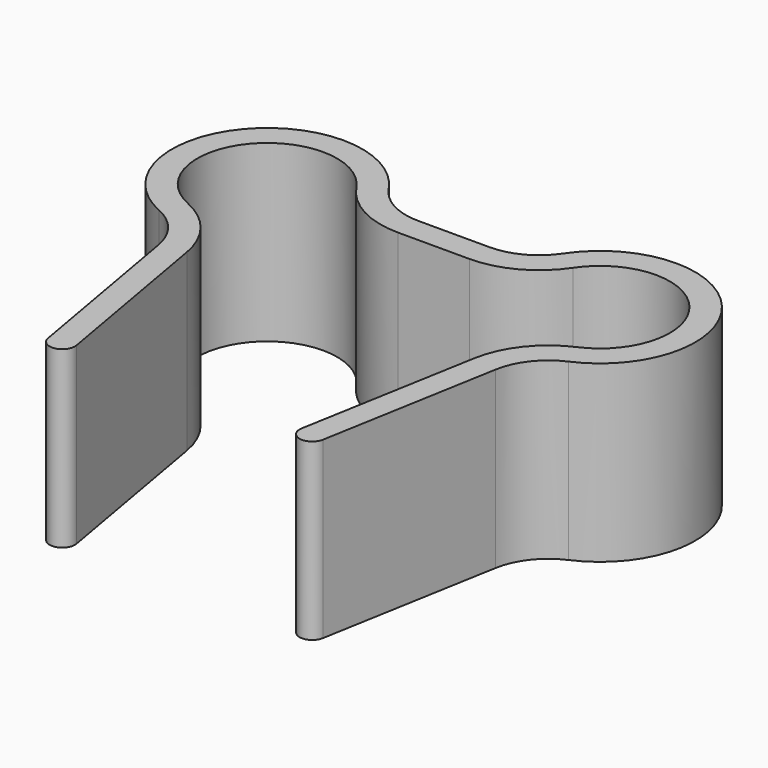
from build123d import *

# Parameters (mm, degrees)
F1_DEPTH = 20


with BuildPart() as f1:
    # F0 (on Top) → F1 (new body)
    with BuildSketch(Plane.XY):
        with BuildLine():
            Line((-4.08337, 18.350895), (0, 18.350895))
            Line((0, 18.350895), (4.08337, 18.350895))
            ThreePointArc((4.08337, 18.350895), (8.797416, 19.531724), (12.398165, 22.795339))
            ThreePointArc((12.398165, 22.795339), (25.178356, 23.493196), (22.271844, 11.028346))
            ThreePointArc((22.271844, 11.028346), (18.432547, 8.049022), (16.451072, 3.611642))
            Line((16.451072, 3.611642), (12.878556, -16.649105))
            ThreePointArc((12.878556, -16.649105), (14.054737, -18.328866), (15.734498, -17.152685))
            Line((15.734498, -17.152685), (19.307015, 3.108062))
            ThreePointArc((19.307015, 3.108062), (20.713862, 6.258602), (23.439763, 8.373922))
            ThreePointArc((23.439763, 8.373922), (27.399884, 25.35728), (9.986874, 24.40645))
            ThreePointArc((9.986874, 24.40645), (7.430343, 22.089283), (4.08337, 21.250895))
            Line((4.08337, 21.250895), (0, 21.250895))
            Line((0, 21.250895), (-4.08337, 21.250895))
            ThreePointArc((-4.08337, 21.250895), (-7.430343, 22.089283), (-9.986874, 24.40645))
            ThreePointArc((-9.986874, 24.40645), (-27.399884, 25.35728), (-23.439763, 8.373922))
            ThreePointArc((-23.439763, 8.373922), (-20.713862, 6.258602), (-19.307015, 3.108062))
            Line((-19.307015, 3.108062), (-15.734498, -17.152685))
            ThreePointArc((-15.734498, -17.152685), (-14.054737, -18.328866), (-12.878556, -16.649105))
            Line((-12.878556, -16.649105), (-16.451072, 3.611642))
            ThreePointArc((-16.451072, 3.611642), (-18.432547, 8.049022), (-22.271844, 11.028346))
            ThreePointArc((-22.271844, 11.028346), (-25.178356, 23.493196), (-12.398165, 22.795339))
            ThreePointArc((-12.398165, 22.795339), (-8.797416, 19.531724), (-4.08337, 18.350895))
        make_face()
    extrude(amount=F1_DEPTH)


solid = f1.part
